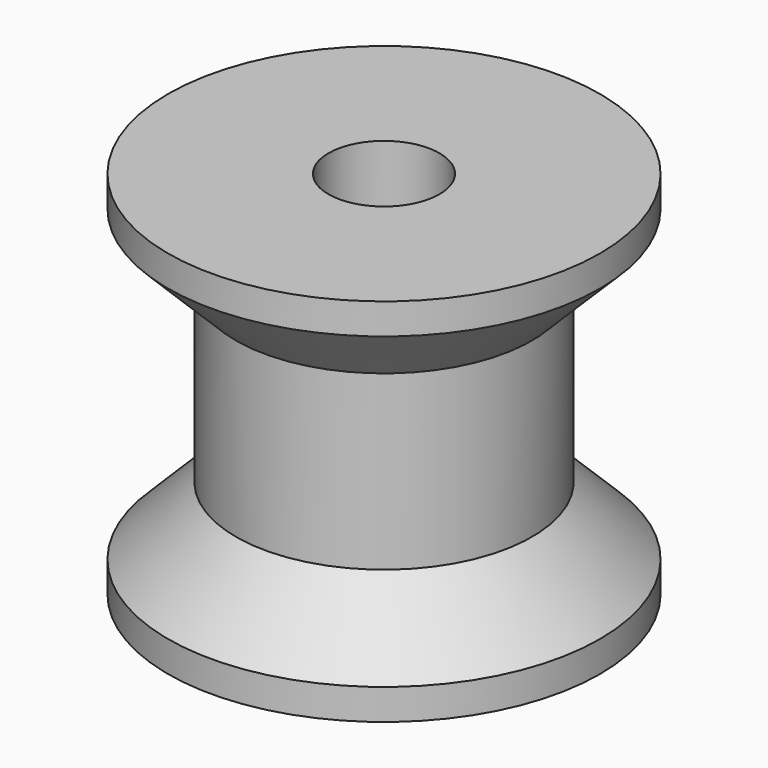
from build123d import *


with BuildPart() as f1:
    # F0 (on Front) → F1 (revolve)
    with BuildSketch(Plane.XZ):
        Polygon((-1.8, -6), (-1.8, 0), (-4.8, 0), (-4.8, -2.8), (-4.8, -6), align=None)
        Polygon((-4.8, 2.8), (-4.8, 6), (-7, 6), (-7, 5), align=None)
        Polygon((-1.8, 6), (-4.8, 6), (-4.8, 2.8), (-4.8, 0), (-1.8, 0), align=None)
        Polygon((-4.8, -6), (-4.8, -2.8), (-7, -5), (-7, -6), align=None)
    revolve(axis=Axis((0, 0, -0.768788), (0, 0, -1)))


solid = f1.part
